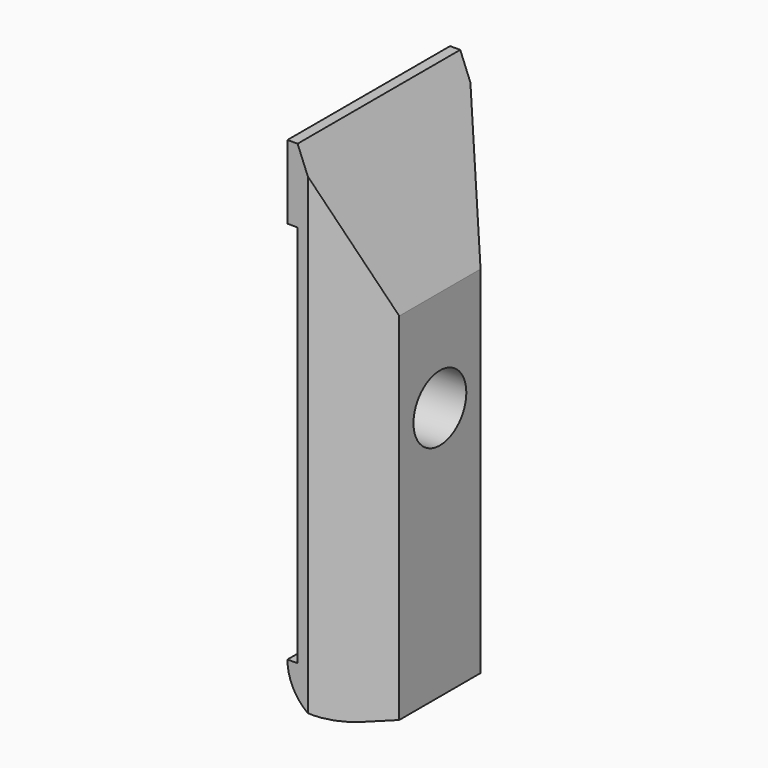
from build123d import *

# Parameters (mm, degrees)
F0_W     = 7
F0_H     = 50
F1_DEPTH = 20
F2_R     = 5
F3_W     = 20
F3_H     = 37.745
F4_DEPTH = 1
F5_SIZE2 = 15
F5_SIZE  = 6
F6_R     = 3.25
F7_DEPTH = 25
F8_SIZE  = 5


with BuildPart() as f1:
    # F0 (on Front) → F1 (new body)
    with BuildSketch(Plane.XZ):
        Rectangle(F0_W, F0_H)
    extrude(amount=F1_DEPTH)

    # F2
    f2_edges = [f1.edges().sort_by_distance(p)[0] for p in [
        (-3.5, -10, -25),
    ]]
    fillet(f2_edges, radius=F2_R)

    # F3 (on face) → F4 (cut)
    with BuildSketch(Plane(origin=(-3.5, 0, 0), x_dir=(0, -1, 0), z_dir=(-1, 0, 0))):
        with Locations((10, -1.1275)):
            Rectangle(F3_W, F3_H)
    extrude(amount=-F4_DEPTH, mode=Mode.SUBTRACT)

    # F5
    f5_edges = [f1.edges().sort_by_distance(p)[0] for p in [
        (3.5, -10, 25),
    ]]
    chamfer(f5_edges, length=F5_SIZE, length2=F5_SIZE2)

    # F6 (on face) → F7 (cut)
    with BuildSketch(Plane.YZ.offset(3.5)):
        with Locations((-10, 0)):
            Circle(F6_R)
    extrude(amount=-F7_DEPTH, mode=Mode.SUBTRACT)

    # F8
    f8_edges = [f1.edges().sort_by_distance(p)[0] for p in [
        (3.5, -20, -7.5),
        (3.5, 0, -7.5),
    ]]
    chamfer(f8_edges, length=F8_SIZE)


solid = f1.part
